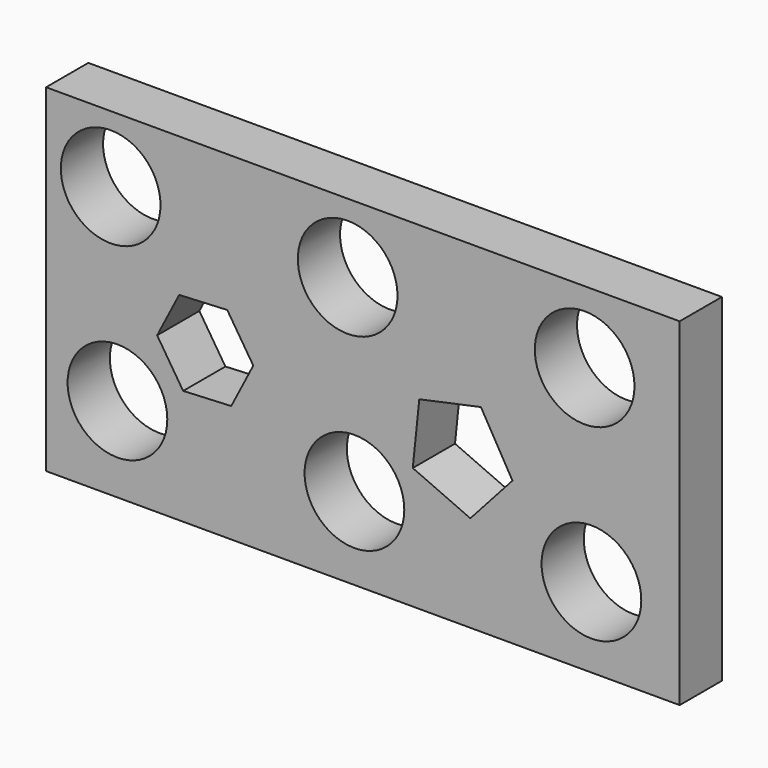
from build123d import *

# Parameters (mm, degrees)
F0_W     = 300
F0_H     = 160
F1_DEPTH = 25
F2_R     = 23.600051
F3_DEPTH = 25.001
F5_DEPTH = 25.001
F7_DEPTH = 25.001


with BuildPart() as f1:
    # F0 (on Front) → F1 (new body)
    with BuildSketch(Plane.XZ):
        with Locations((-34.793959, -40.223419)):
            Rectangle(F0_W, F0_H)
    extrude(amount=F1_DEPTH)

    # F2 (on face) → F3 (cut, through all)
    with BuildSketch(Plane.XZ.offset(25)):
        with Locations((-154.207721, 8.238197)):
            Circle(F2_R)
        with Locations((-42, 7)):
            Circle(F2_R)
        with Locations((70.207721, 5.761803)):
            Circle(F2_R)
        with Locations((73.415443, -82.476395)):
            Circle(F2_R)
        with Locations((-38.792279, -81.238197)):
            Circle(F2_R)
        with Locations((-151, -80)):
            Circle(F2_R)
    extrude(amount=-F3_DEPTH, mode=Mode.SUBTRACT)

    # F4 (on face) → F5 (cut, through all)
    with BuildSketch(Plane.XZ.offset(25)):
        Polygon((-86.684604, -44.342975), (-99.012743, -25.174466), (-121.777227, -26.266693), (-132.213573, -46.527428), (-119.885435, -65.695936), (-97.12095, -64.60371), align=None)
    extrude(amount=-F5_DEPTH, mode=Mode.SUBTRACT)

    # F6 (on face) → F7 (cut, through all)
    with BuildSketch(Plane.XZ.offset(25)):
        Polygon((36.027657, -52.399745), (21.085804, -26.581729), (-8.085875, -32.814069), (-11.173111, -62.483884), (16.090551, -74.588498), align=None)
    extrude(amount=-F7_DEPTH, mode=Mode.SUBTRACT)


solid = f1.part
